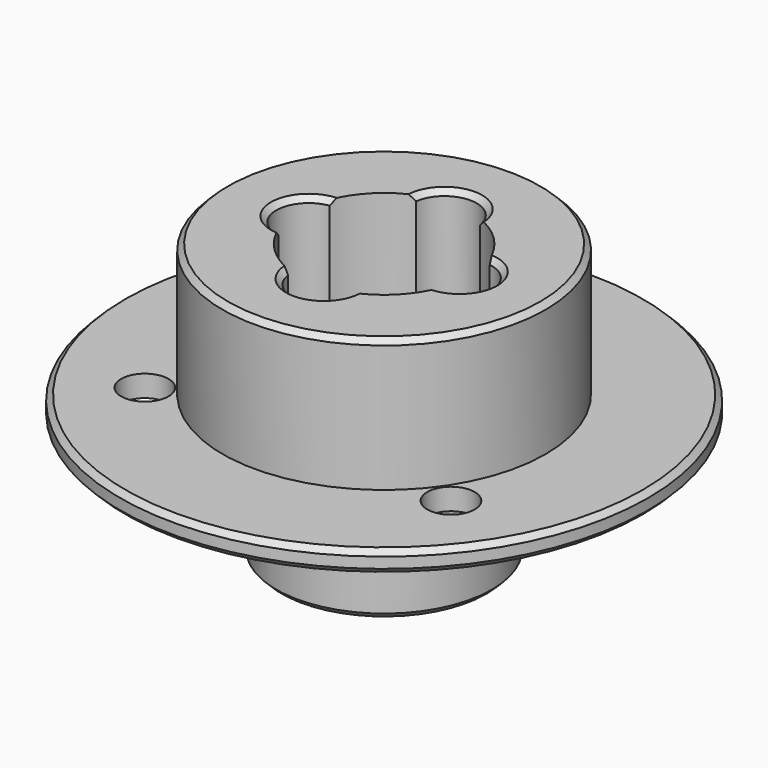
from build123d import *

# Parameters (mm, degrees)
F0_R     = 24.5
F0_R_2   = 15
F0_R_3   = 10
F1_DEPTH = 2
F2_R     = 15
F2_R_2   = 8
F3_DEPTH = 12.3
F4_R     = 10
F4_R_2   = 8
F5_DEPTH = 13.2
F6_D     = 4.4
F6_DEPTH = 14
F6_TIP   = 1.3218933619
F7_R     = 3
F8_DEPTH = 14
F9_SIZE  = 0.5
F10_SIZE = 0.5


with BuildPart() as f1:
    # F0 (on Top) → F1 (new body)
    with BuildSketch(Plane.XY):
        Circle(F0_R)
        Circle(F0_R_2, mode=Mode.SUBTRACT)
        Circle(F0_R_2)
        Circle(F0_R_3, mode=Mode.SUBTRACT)
    extrude(amount=F1_DEPTH)

    # F2 (on face) → F3 (join)
    with BuildSketch(Plane.XY.offset(2)):
        Circle(F2_R)
        Circle(F2_R_2, mode=Mode.SUBTRACT)
    extrude(amount=F3_DEPTH)

    # F4 (on face) → F5 (join)
    with BuildSketch(Plane.XY.offset(2)):
        Circle(F4_R)
        Circle(F4_R_2, mode=Mode.SUBTRACT)
    extrude(amount=-F5_DEPTH)

    # F6
    with Locations(Plane(origin=(0, 0, 0), x_dir=(1, 0, 0), z_dir=(0, 0, -1))):
        with Locations((0, -17.375), (-14.2088220835, 10), (14.2088220835, 10)):
            Hole(F6_D / 2, depth=F6_DEPTH)
            with Locations((0, 0, -(F6_DEPTH + F6_TIP / 2))):  # 118° drill point
                Cone(0, F6_D / 2, F6_TIP, mode=Mode.SUBTRACT)

    # F7 (on face) → F8 (cut)
    with BuildSketch(Plane.XY.offset(14.3)):
        with Locations((0, 7)):
            Circle(F7_R)
        with Locations((-7, 0)):
            Circle(F7_R)
        with Locations((7, 0)):
            Circle(F7_R)
        with Locations((0, -7)):
            Circle(F7_R)
    extrude(amount=-F8_DEPTH, mode=Mode.SUBTRACT)

    # F9
    f9_edges = [f1.edges().sort_by_distance(p)[0] for p in [
        (-10, 0, 14.3),
        (0, 10, 14.3),
        (10, 0, 14.3),
        (0, -10, 14.3),
        (-15, 0, 14.3),
        (-24.5, 0, 2),
        (-10, 0, -11.2),
        (-8, 0, -11.2),
    ]]
    chamfer(f9_edges, length=F9_SIZE)

    # F10
    f10_edges = [f1.edges().sort_by_distance(p)[0] for p in [
        (-24.5, 0, 0),
    ]]
    chamfer(f10_edges, length=F10_SIZE)


solid = f1.part
